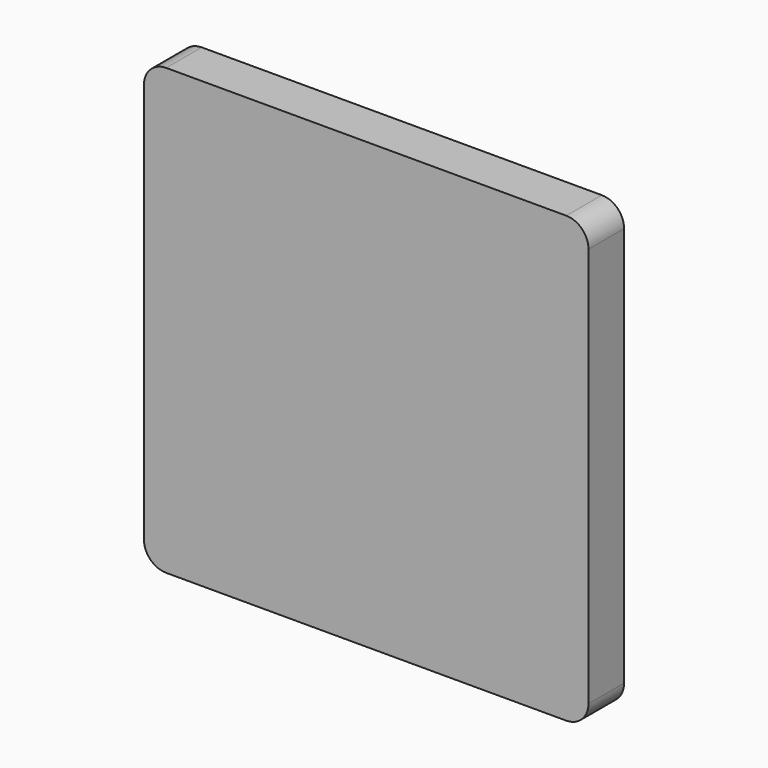
from build123d import *

# Parameters (mm, degrees)
F0_W     = 100
F0_H     = 100
F1_DEPTH = 10
F2_R     = 5


with BuildPart() as f1:
    # F0 (on Front) → F1 (new body)
    with BuildSketch(Plane.XZ):
        with Locations((-9.860069, -17.425489)):
            Rectangle(F0_W, F0_H)
        with Locations((-9.860069, -17.425489)):
            Rectangle(F0_W, F0_H)
    extrude(amount=F1_DEPTH)

    # F2
    f2_edges = [f1.edges().sort_by_distance(p)[0] for p in [
        (40.139931, -5, 32.574511),
        (-59.860069, -5, 32.574511),
        (40.139931, -5, -67.425489),
        (-59.860069, -5, -67.425489),
    ]]
    fillet(f2_edges, radius=F2_R)


solid = f1.part
